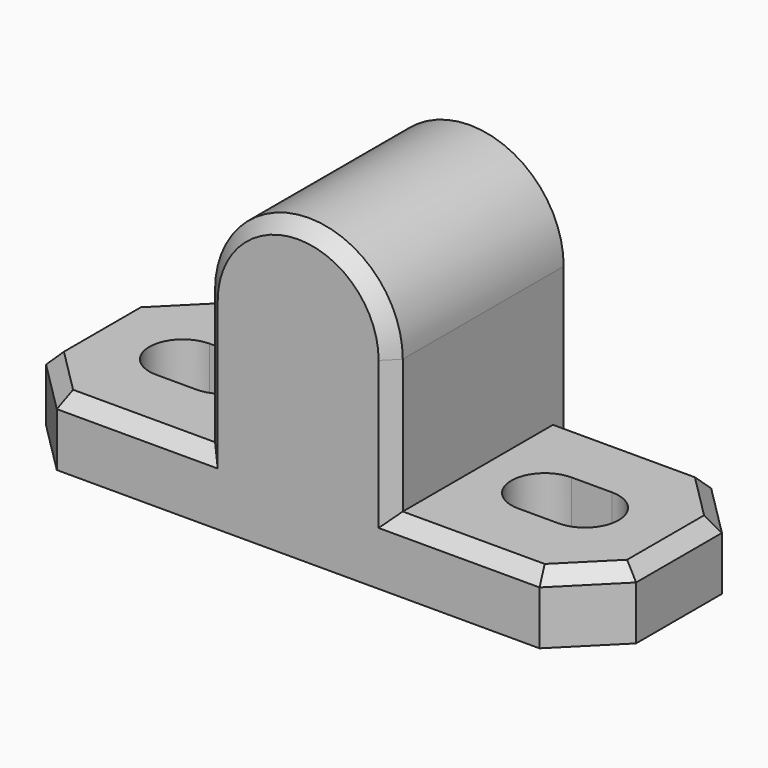
from build123d import *

# Parameters (mm, degrees)
PAD_DEPTH       = 8
POCKET_DEPTH    = 5.001
SKETCH002_R     = 4
POCKET001_DEPTH = 12
CHAMFER_SIZE    = 4
CHAMFER001_SIZE = 1
CHAMFER002_SIZE = 1


with BuildPart() as part:
    # Sketch → Pad (new body, symmetric)
    with BuildSketch(Plane.XZ):
        with BuildLine():
            Line((-22, -15), (22, -15))
            Line((22, -15), (22, -10))
            Line((22, -10), (7, -10))
            Line((7, -10), (7, 0))
            ThreePointArc((7, 0), (0, 7), (-7, 0))
            Line((-7, -10), (-7, 0))
            Line((-22, -10), (-7, -10))
            Line((-22, -15), (-22, -10))
        make_face()
    extrude(amount=PAD_DEPTH, both=True)

    # Sketch001 (on Face7 of Pad) → Pocket (cut, through all)
    with BuildSketch(Plane(origin=(0, 0, -10), x_dir=(-1, 0, 0), z_dir=(0, 0, 1))):
        with BuildLine():
            ThreePointArc((-15, 2.5), (-17.5, 0), (-15, -2.5))
            Line((-15, -2.5), (-12, -2.5))
            ThreePointArc((-12, -2.5), (-9.5, 0), (-12, 2.5))
            Line((-15, 2.5), (-12, 2.5))
        make_face()
        with BuildLine():
            ThreePointArc((12, 2.5), (9.5, 0), (12, -2.5))
            Line((12, -2.5), (15, -2.5))
            ThreePointArc((15, -2.5), (17.5, 0), (15, 2.5))
            Line((12, 2.5), (15, 2.5))
        make_face()
    extrude(amount=-POCKET_DEPTH, mode=Mode.SUBTRACT)

    # Sketch002 (on Face3 of Pocket) → Pocket001 (cut)
    with BuildSketch(Plane(origin=(0, 8, 0), x_dir=(1, 0, 0), z_dir=(0, 1, 0))):
        Circle(SKETCH002_R)
    extrude(amount=-POCKET001_DEPTH, mode=Mode.SUBTRACT)

    # Chamfer
    chamfer_edges = [part.edges().sort_by_distance(p)[0] for p in [
        (22, 8, -12.5),
        (-22, 8, -12.5),
        (-22, -8, -12.5),
        (22, -8, -12.5),
    ]]
    chamfer(chamfer_edges, length=CHAMFER_SIZE)

    # Chamfer001
    chamfer001_edges = [part.edges().sort_by_distance(p)[0] for p in [
        (-12.5, 8, -10),
        (-20, 6, -10),
        (-22, 0, -10),
        (-12.5, -8, -10),
        (12.5, -8, -10),
        (20, -6, -10),
        (22, 0, -10),
        (20, 6, -10),
        (12.5, 8, -10),
        (-20, -6, -10),
        (0, -8, 7),
    ]]
    chamfer(chamfer001_edges, length=CHAMFER001_SIZE)

    # Chamfer002
    chamfer002_edges = [part.edges().sort_by_distance(p)[0] for p in [
        (-4, 8, 0),
    ]]
    chamfer(chamfer002_edges, length=CHAMFER002_SIZE)


solid = part.part
